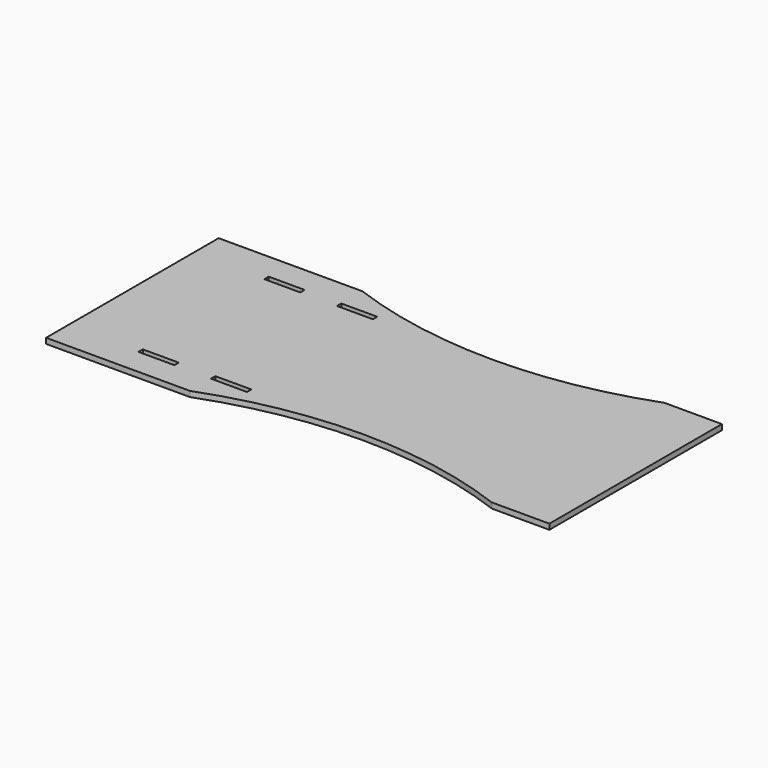
from build123d import *

# Parameters (mm, degrees)
F0_W     = 127
F0_H     = 19.2532
F1_DEPTH = 19.2532


with BuildPart() as f1:
    # F0 (on Top) → F1 (new body)
    with BuildSketch(Plane.XY):
        with BuildLine():
            Line((259.188156, 705.752429), (-121.811844, 705.752429))
            Line((-121.811844, 705.752429), (-121.811844, -56.247571))
            Line((-121.811844, -56.247571), (259.188156, -56.247571))
            Line((259.188156, -56.247571), (386.188156, -56.247571))
            ThreePointArc((386.188156, -56.247571), (919.588156, 40.145887), (1452.988156, -56.247571))
            Line((1452.988156, -56.247571), (1656.188156, -56.247571))
            Line((1656.188156, -56.247571), (1656.188156, 705.752429))
            Line((1656.188156, 705.752429), (1452.988156, 705.752429))
            ThreePointArc((1452.988156, 705.752429), (919.588156, 610.929885), (386.188156, 705.752429))
            Line((386.188156, 705.752429), (259.188156, 705.752429))
        make_face()
        with Locations((193.229106, 46.649086)):
            Rectangle(F0_W, F0_H, mode=Mode.SUBTRACT)
        with Locations((449.688156, 46.649086)):
            Rectangle(F0_W, F0_H, mode=Mode.SUBTRACT)
        with Locations((193.229106, 602.855785)):
            Rectangle(F0_W, F0_H, mode=Mode.SUBTRACT)
        with Locations((449.688156, 602.855785)):
            Rectangle(F0_W, F0_H, mode=Mode.SUBTRACT)
    extrude(amount=F1_DEPTH)


solid = f1.part
